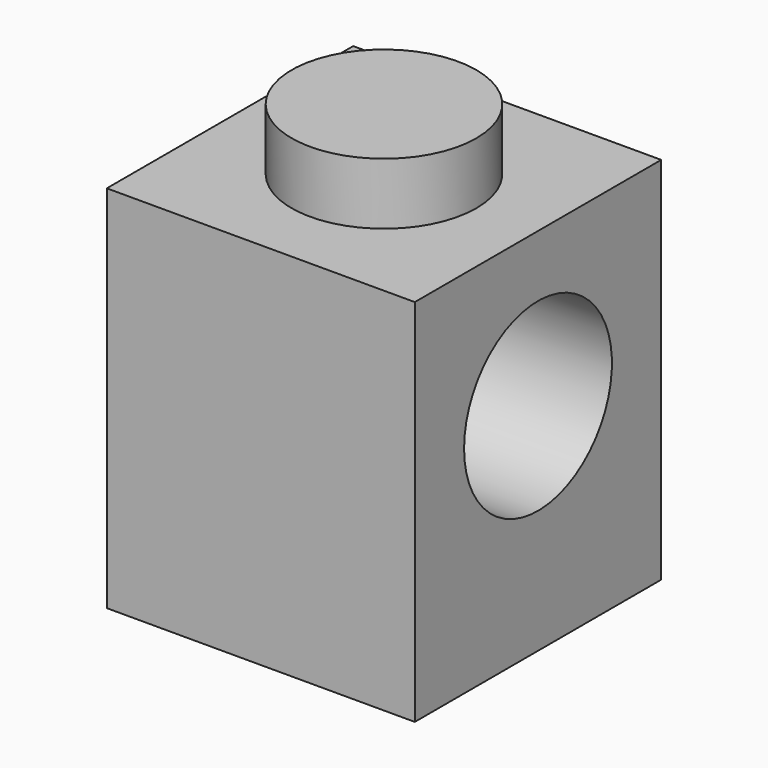
from build123d import *

# Parameters (mm, degrees)
F0_W     = 8
F0_H     = 8
F1_DEPTH = 9.6
F2_R     = 2.4
F3_DEPTH = 25
F4_R     = 2.4
F5_DEPTH = 1.6


with BuildPart() as f1:
    # F0 (on Top) → F1 (new body)
    with BuildSketch(Plane.XY):
        with Locations((-37.674442, 42.264509)):
            Rectangle(F0_W, F0_H)
    extrude(amount=F1_DEPTH)

    # F2 (on face) → F3 (cut)
    with BuildSketch(Plane(origin=(-41.674442, 0, 0), x_dir=(0, -1, 0), z_dir=(-1, 0, 0))):
        with Locations((-42.264509, 5.6)):
            Circle(F2_R)
    extrude(amount=-F3_DEPTH, mode=Mode.SUBTRACT)

    # F4 (on face) → F5 (join)
    with BuildSketch(Plane.XY.offset(9.6)):
        with Locations((-37.674442, 42.264509)):
            Circle(F4_R)
    extrude(amount=F5_DEPTH)


solid = f1.part
